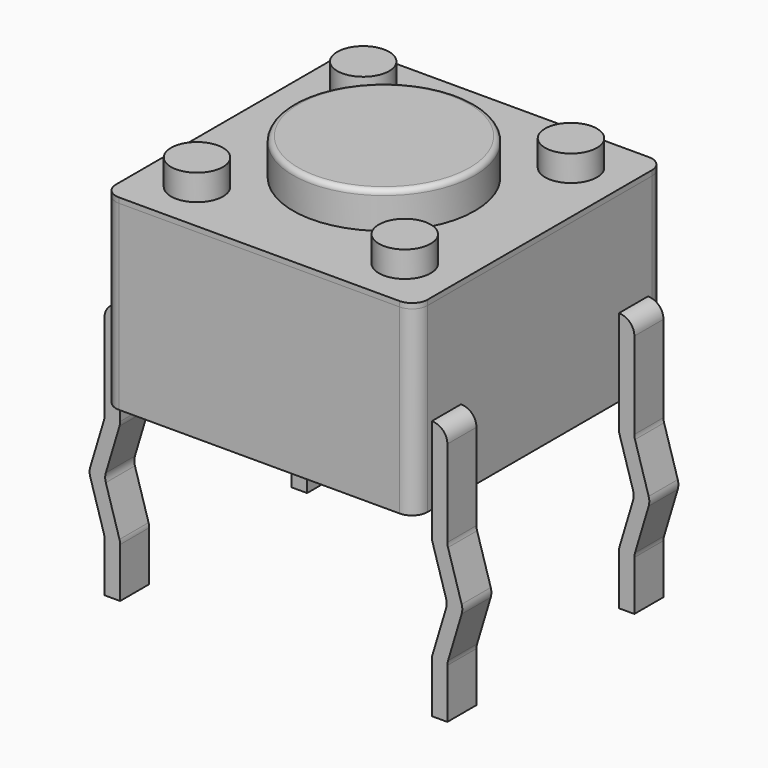
from build123d import *

# Parameters (mm, degrees)
SKETCH001_W  = 6
SKETCH001_H  = 6
PAD001_DEPTH = 0.1
FILLET001_R  = 0.3
SKETCH_W     = 6
SKETCH_H     = 6
PAD_DEPTH    = 3.5
FILLET_R     = 0.3
SKETCH005_R  = 0.5
PAD002_DEPTH = 0.6
SKETCH004_R  = 0.5
PAD003_DEPTH = 0.6
SKETCH003_R  = 0.5
PAD004_DEPTH = 0.6
SKETCH002_R  = 0.5
PAD005_DEPTH = 0.6
PAD007_DEPTH = 0.7
FILLET002_R  = 0.29
PAD008_DEPTH = 0.7
FILLET003_R  = 0.29
PAD009_DEPTH = 0.7
FILLET004_R  = 0.29
PAD010_DEPTH = 0.7
FILLET005_R  = 0.29
SKETCH006_R  = 1.75
PAD006_DEPTH = 0.8
FILLET006_R  = 0.1


with BuildPart() as fillet001:
    # Sketch001 → Pad001 (new body)
    with BuildSketch(Plane.XY.offset(3.5)):
        with Locations((3.15, -2.25)):
            Rectangle(SKETCH001_W, SKETCH001_H)
    extrude(amount=PAD001_DEPTH)

    # Fillet001
    fillet001_edges = [fillet001.edges().sort_by_distance(p)[0] for p in [
        (6.15, -5.25, 3.55),
        (0.15, -5.25, 3.55),
        (6.15, 0.75, 3.55),
        (0.15, 0.75, 3.55),
    ]]
    fillet(fillet001_edges, radius=FILLET001_R)


with BuildPart() as fillet_body:
    # Sketch → Pad (new body)
    with BuildSketch(Plane.XY):
        with Locations((3.15, -2.25)):
            Rectangle(SKETCH_W, SKETCH_H)
    extrude(amount=PAD_DEPTH)

    # Fillet
    fillet_edges = [fillet_body.edges().sort_by_distance(p)[0] for p in [
        (6.15, 0.75, 1.75),
        (6.15, -5.25, 1.75),
        (0.15, -5.25, 1.75),
        (0.15, 0.75, 1.75),
    ]]
    fillet(fillet_edges, radius=FILLET_R)


with BuildPart() as pad002:
    # Pad002 base: copy of Fillet body
    add(fillet_body.part)

    # Sketch005 → Pad002 (new body)
    with BuildSketch(Plane.XY.offset(3.5)):
        with Locations((1.15, -0.25)):
            Circle(SKETCH005_R)
    extrude(amount=PAD002_DEPTH)


with BuildPart() as pad003:
    # Pad003 base: copy of Fillet body
    add(fillet_body.part)

    # Sketch004 → Pad003 (new body)
    with BuildSketch(Plane.XY.offset(3.5)):
        with Locations((5.15, -0.25)):
            Circle(SKETCH004_R)
    extrude(amount=PAD003_DEPTH)


with BuildPart() as pad004:
    # Pad004 base: copy of Fillet body
    add(fillet_body.part)

    # Sketch003 → Pad004 (new body)
    with BuildSketch(Plane.XY.offset(3.5)):
        with Locations((5.15, -4.25)):
            Circle(SKETCH003_R)
    extrude(amount=PAD004_DEPTH)


with BuildPart() as pad005:
    # Pad005 base: copy of Fillet body
    add(fillet_body.part)

    # Sketch002 → Pad005 (new body)
    with BuildSketch(Plane.XY.offset(3.5)):
        with Locations((1.15, -4.25)):
            Circle(SKETCH002_R)
    extrude(amount=PAD005_DEPTH)


with BuildPart() as fillet002:
    # Sketch007 → Pad007 (new body)
    with BuildSketch(Plane.XZ.offset(4.85)):
        Polygon((-0.15, 1.5), (0.15, 1.5), (0.15, -0.5), (-0.15, -1.5), (0.15, -2.5), (0.15, -3.5), (-0.15, -3.5), (-0.15, -2.5), (-0.45, -1.5), (-0.15, -0.5), align=None)
    extrude(amount=-PAD007_DEPTH)

    # Fillet002
    fillet002_edges = [fillet002.edges().sort_by_distance(p)[0] for p in [
        (-0.15, -4.5, -2.5),
        (-0.15, -4.5, -0.5),
        (-0.45, -4.5, -1.5),
        (-0.15, -4.5, 1.5),
        (0.15, -4.5, -0.5),
        (-0.15, -4.5, -1.5),
        (0.15, -4.5, -2.5),
    ]]
    fillet(fillet002_edges, radius=FILLET002_R)


with BuildPart() as fillet003:
    # Sketch008 → Pad008 (new body)
    with BuildSketch(Plane.XZ.offset(0.35)):
        Polygon((-0.15, 1.5), (0.15, 1.5), (0.15, -0.5), (-0.15, -1.5), (0.15, -2.5), (0.15, -3.5), (-0.15, -3.5), (-0.15, -2.5), (-0.45, -1.5), (-0.15, -0.5), align=None)
    extrude(amount=-PAD008_DEPTH)

    # Fillet003
    fillet003_edges = [fillet003.edges().sort_by_distance(p)[0] for p in [
        (-0.15, 0, -2.5),
        (-0.15, 0, -0.5),
        (-0.45, 0, -1.5),
        (-0.15, 0, 1.5),
        (0.15, 0, -0.5),
        (-0.15, 0, -1.5),
        (0.15, 0, -2.5),
    ]]
    fillet(fillet003_edges, radius=FILLET003_R)


with BuildPart() as fillet004:
    # Sketch009 → Pad009 (new body)
    with BuildSketch(Plane.XZ.offset(4.85)):
        Polygon((6.45, 1.5), (6.15, 1.5), (6.15, -0.5), (6.45, -1.5), (6.15, -2.5), (6.15, -3.5), (6.45, -3.5), (6.45, -2.5), (6.75, -1.5), (6.45, -0.5), align=None)
    extrude(amount=-PAD009_DEPTH)

    # Fillet004
    fillet004_edges = [fillet004.edges().sort_by_distance(p)[0] for p in [
        (6.45, -4.5, -2.5),
        (6.45, -4.5, -0.5),
        (6.75, -4.5, -1.5),
        (6.45, -4.5, 1.5),
        (6.15, -4.5, -0.5),
        (6.45, -4.5, -1.5),
        (6.15, -4.5, -2.5),
    ]]
    fillet(fillet004_edges, radius=FILLET004_R)


with BuildPart() as fillet005:
    # Sketch010 → Pad010 (new body)
    with BuildSketch(Plane.XZ.offset(0.35)):
        Polygon((6.45, 1.5), (6.15, 1.5), (6.15, -0.5), (6.45, -1.5), (6.15, -2.5), (6.15, -3.5), (6.45, -3.5), (6.45, -2.5), (6.75, -1.5), (6.45, -0.5), align=None)
    extrude(amount=-PAD010_DEPTH)

    # Fillet005
    fillet005_edges = [fillet005.edges().sort_by_distance(p)[0] for p in [
        (6.45, 0, -2.5),
        (6.45, 0, -0.5),
        (6.75, 0, -1.5),
        (6.45, 0, 1.5),
        (6.15, 0, -0.5),
        (6.45, 0, -1.5),
        (6.15, 0, -2.5),
    ]]
    fillet(fillet005_edges, radius=FILLET005_R)


with BuildPart() as fillet006:
    # Pad006 base: copy of Fillet body
    add(fillet_body.part)

    # Sketch006 → Pad006 (new body)
    with BuildSketch(Plane.XY.offset(3.5)):
        with Locations((3.15, -2.25)):
            Circle(SKETCH006_R)
    extrude(amount=PAD006_DEPTH)

    # Fillet006
    fillet006_edges = [fillet006.edges().sort_by_distance(p)[0] for p in [
        (1.4, -2.25, 4.3),
    ]]
    fillet(fillet006_edges, radius=FILLET006_R)


solid = Compound([fillet001.part, pad002.part, pad003.part, pad004.part, pad005.part, fillet002.part, fillet003.part, fillet004.part, fillet005.part, fillet006.part])
